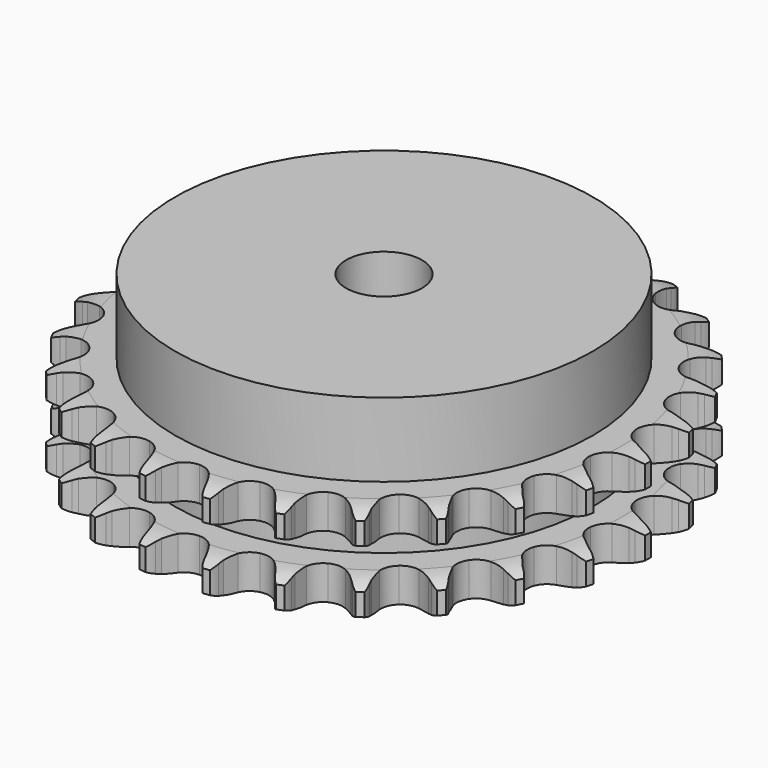
from build123d import *

# Parameters (mm, degrees)
PAD_DEPTH         = 25.5
SKETCH001_R       = 55
PAD001_DEPTH      = 45
SKETCH002_R       = 10
POCKET_DEPTH      = 0.001
POCKET_DEPTH_BACK = 45.001


with BuildPart() as part:
    # Sprocket → Pad (new body)
    with BuildSketch(Plane.XY):
        with BuildLine():
            ThreePointArc((-8.535843, 70.298991), (-7.278141, 68.863703), (-6.380745, 67.179499))
            Line((-6.380745, 67.179499), (-5.886352, 65.921935))
            ThreePointArc((-5.886352, 65.921935), (-5.099116, 64.265742), (-4.091099, 62.733874))
            ThreePointArc((-4.091099, 62.733874), (-2.28265, 61.242083), (0, 60.707824))
            ThreePointArc((0, 60.707824), (2.28265, 61.242083), (4.091099, 62.733874))
            ThreePointArc((4.091099, 62.733874), (5.099116, 64.265742), (5.886352, 65.921935))
            Line((5.886352, 65.921935), (6.380745, 67.179499))
            ThreePointArc((6.380745, 67.179499), (7.278141, 68.863703), (8.535843, 70.298991))
            ThreePointArc((8.535843, 70.298991), (9.413511, 68.604422), (9.881775, 66.754397))
            Line((9.881775, 66.754397), (10.060846, 65.41506))
            ThreePointArc((10.060846, 65.41506), (10.428854, 63.618594), (11.040979, 61.890005))
            ThreePointArc((11.040979, 61.890005), (12.439869, 60.008774), (14.528333, 58.943765))
            ThreePointArc((14.528333, 58.943765), (16.872511, 58.916226), (18.985418, 59.931877))
            Line((18.985418, 59.931877), (21.491457, 62.597667))
            ThreePointArc((21.491457, 62.597667), (21.867904, 63.158966), (22.272438, 63.700373))
            ThreePointArc((22.272438, 63.700373), (23.546814, 65.120876), (25.111457, 66.213469))
            ThreePointArc((25.111457, 66.213469), (25.558085, 64.358102), (25.570001, 62.449772))
            Line((25.570001, 62.449772), (25.423345, 61.106499))
            ThreePointArc((25.423345, 61.106499), (25.350736, 59.274165), (25.531396, 57.449315))
            ThreePointArc((25.531396, 57.449315), (26.439429, 55.287972), (28.212333, 53.754109))
            ThreePointArc((28.212333, 53.754109), (30.481802, 53.166371), (32.776373, 53.646858))
            Line((32.776373, 53.646858), (35.847557, 55.63545))
            ThreePointArc((35.847557, 55.63545), (36.347393, 56.090349), (36.869739, 56.519212))
            ThreePointArc((36.869739, 56.519212), (38.447033, 57.59346), (40.227684, 58.279861))
            ThreePointArc((40.227684, 58.279861), (40.217315, 56.371522), (39.772192, 54.515793))
            Line((39.772192, 54.515793), (39.308331, 53.24665))
            ThreePointArc((39.308331, 53.24665), (38.799326, 51.484938), (38.538021, 49.669879))
            ThreePointArc((38.538021, 49.669879), (38.902425, 47.354035), (40.256734, 45.440459))
            ThreePointArc((40.256734, 45.440459), (42.319601, 44.326681), (44.662485, 44.244078))
            Line((44.662485, 44.244078), (48.120326, 45.439903))
            ThreePointArc((48.120326, 45.439903), (48.714503, 45.761965), (49.324304, 46.053361))
            ThreePointArc((49.324304, 46.053361), (51.112849, 46.718922), (53.006024, 46.95924))
            ThreePointArc((53.006024, 46.95924), (52.539261, 45.108835), (51.662968, 43.413555))
            Line((51.662968, 43.413555), (50.90886, 42.2923))
            ThreePointArc((50.90886, 42.2923), (49.99304, 40.703592), (49.304956, 39.003811))
            ThreePointArc((49.304956, 39.003811), (49.104553, 36.668053), (49.96156, 34.485975))
            ThreePointArc((49.96156, 34.485975), (51.69794, 32.910884), (53.952975, 32.269993))
            Line((53.952975, 32.269993), (57.596518, 32.603555))
            ThreePointArc((57.596518, 32.603555), (58.250503, 32.774062), (58.91232, 32.911055))
            ThreePointArc((58.91232, 32.911055), (60.808172, 33.129249), (62.703847, 32.909518))
            ThreePointArc((62.703847, 32.909518), (61.807817, 31.224586), (60.551279, 29.788278))
            Line((60.551279, 29.788278), (59.550751, 28.880075))
            ThreePointArc((59.550751, 28.880075), (58.281341, 27.556702), (57.206467, 26.070982))
            ThreePointArc((57.206467, 26.070982), (56.452904, 23.851057), (56.762802, 21.527291))
            ThreePointArc((56.762802, 21.527291), (58.071782, 19.582427), (60.107915, 18.420494))
            Line((60.107915, 18.420494), (63.725409, 17.872406))
            ThreePointArc((63.725409, 17.872406), (64.401195, 17.88145), (65.076566, 17.856079))
            ThreePointArc((65.076566, 17.856079), (66.969545, 17.614226), (68.75755, 16.947214))
            ThreePointArc((68.75755, 16.947214), (67.484326, 15.525677), (65.920571, 14.431816))
            Line((65.920571, 14.431816), (64.731768, 13.789445))
            ThreePointArc((64.731768, 13.789445), (63.182541, 12.808317), (61.783345, 11.623003))
            ThreePointArc((61.783345, 11.623003), (60.520417, 9.647925), (60.265196, 7.31752))
            ThreePointArc((60.265196, 7.31752), (61.070703, 5.11591), (62.7696, 3.500462))
            Line((62.7696, 3.500462), (66.150811, 2.102577))
            ThreePointArc((66.150811, 2.102577), (66.809125, 1.949632), (67.458798, 1.763372))
            ThreePointArc((67.458798, 1.763372), (69.238892, 1.075527), (70.815314, 0))
            ThreePointArc((70.815314, 0), (69.238892, -1.075527), (67.458798, -1.763372))
            Line((67.458798, -1.763372), (66.150811, -2.102577))
            ThreePointArc((66.150811, -2.102577), (64.411802, -2.684442), (62.7696, -3.500462))
            ThreePointArc((62.7696, -3.500462), (61.070703, -5.11591), (60.265196, -7.31752))
            ThreePointArc((60.265196, -7.31752), (60.520417, -9.647925), (61.783345, -11.623003))
            Line((61.783345, -11.623003), (64.731768, -13.789445))
            ThreePointArc((64.731768, -13.789445), (65.33435, -14.095491), (65.920571, -14.431816))
            ThreePointArc((65.920571, -14.431816), (67.484326, -15.525677), (68.75755, -16.947214))
            ThreePointArc((68.75755, -16.947214), (66.969545, -17.614226), (65.076566, -17.856079))
            Line((65.076566, -17.856079), (63.725409, -17.872406))
            ThreePointArc((63.725409, -17.872406), (61.897684, -18.02119), (60.107915, -18.420494))
            ThreePointArc((60.107915, -18.420494), (58.071782, -19.582427), (56.762802, -21.527291))
            ThreePointArc((56.762802, -21.527291), (56.452904, -23.851057), (57.206467, -26.070982))
            Line((57.206467, -26.070982), (59.550751, -28.880075))
            ThreePointArc((59.550751, -28.880075), (60.062581, -29.321435), (60.551279, -29.788278))
            ThreePointArc((60.551279, -29.788278), (61.807817, -31.224586), (62.703847, -32.909518))
            ThreePointArc((62.703847, -32.909518), (60.808172, -33.129249), (58.91232, -32.911055))
            Line((58.91232, -32.911055), (57.596518, -32.603555))
            ThreePointArc((57.596518, -32.603555), (55.786296, -32.310612), (53.952975, -32.269993))
            ThreePointArc((53.952975, -32.269993), (51.69794, -32.910884), (49.96156, -34.485975))
            ThreePointArc((49.96156, -34.485975), (49.104553, -36.668053), (49.304956, -39.003811))
            Line((49.304956, -39.003811), (50.90886, -42.2923))
            ThreePointArc((50.90886, -42.2923), (51.300193, -42.843324), (51.662968, -43.413555))
            ThreePointArc((51.662968, -43.413555), (52.539261, -45.108835), (53.006024, -46.95924))
            ThreePointArc((53.006024, -46.95924), (51.112849, -46.718922), (49.324304, -46.053361))
            Line((49.324304, -46.053361), (48.120326, -45.439903))
            ThreePointArc((48.120326, -45.439903), (46.432812, -44.722259), (44.662485, -44.244078))
            ThreePointArc((44.662485, -44.244078), (42.319601, -44.326681), (40.256734, -45.440459))
            ThreePointArc((40.256734, -45.440459), (38.902425, -47.354035), (38.538021, -49.669879))
            Line((38.538021, -49.669879), (39.308331, -53.24665))
            ThreePointArc((39.308331, -53.24665), (39.556424, -53.875314), (39.772192, -54.515793))
            ThreePointArc((39.772192, -54.515793), (40.217315, -56.371522), (40.227684, -58.279861))
            ThreePointArc((40.227684, -58.279861), (38.447033, -57.59346), (36.869739, -56.519212))
            Line((36.869739, -56.519212), (35.847557, -55.63545))
            ThreePointArc((35.847557, -55.63545), (34.380822, -54.534811), (32.776373, -53.646858))
            ThreePointArc((32.776373, -53.646858), (30.481802, -53.166371), (28.212333, -53.754109))
            ThreePointArc((28.212333, -53.754109), (26.439429, -55.287972), (25.531396, -57.449315))
            Line((25.531396, -57.449315), (25.423345, -61.106499))
            ThreePointArc((25.423345, -61.106499), (25.51378, -61.776268), (25.570001, -62.449772))
            ThreePointArc((25.570001, -62.449772), (25.558085, -64.358102), (25.111457, -66.213469))
            ThreePointArc((25.111457, -66.213469), (23.546814, -65.120876), (22.272438, -63.700373))
            Line((22.272438, -63.700373), (21.491457, -62.597667))
            ThreePointArc((21.491457, -62.597667), (20.330744, -61.177998), (18.985418, -59.931877))
            ThreePointArc((18.985418, -59.931877), (16.872511, -58.916226), (14.528333, -58.943765))
            ThreePointArc((14.528333, -58.943765), (12.439869, -60.008774), (11.040979, -61.890005))
            Line((11.040979, -61.890005), (10.060846, -65.41506))
            ThreePointArc((10.060846, -65.41506), (9.988367, -66.087009), (9.881775, -66.754397))
            ThreePointArc((9.881775, -66.754397), (9.413511, -68.604422), (8.535843, -70.298991))
            ThreePointArc((8.535843, -70.298991), (7.278141, -68.863703), (6.380745, -67.179499))
            Line((6.380745, -67.179499), (5.886352, -65.921935))
            ThreePointArc((5.886352, -65.921935), (5.099116, -64.265742), (4.091099, -62.733874))
            ThreePointArc((4.091099, -62.733874), (2.28265, -61.242083), (0, -60.707824))
            ThreePointArc((0, -60.707824), (-2.28265, -61.242083), (-4.091099, -62.733874))
            Line((-4.091099, -62.733874), (-5.886352, -65.921935))
            ThreePointArc((-5.886352, -65.921935), (-6.117533, -66.557013), (-6.380745, -67.179499))
            ThreePointArc((-6.380745, -67.179499), (-7.278141, -68.863703), (-8.535843, -70.298991))
            ThreePointArc((-8.535843, -70.298991), (-9.413511, -68.604422), (-9.881775, -66.754397))
            Line((-9.881775, -66.754397), (-10.060846, -65.41506))
            ThreePointArc((-10.060846, -65.41506), (-10.428854, -63.618594), (-11.040979, -61.890005))
            ThreePointArc((-11.040979, -61.890005), (-12.439869, -60.008774), (-14.528333, -58.943765))
            ThreePointArc((-14.528333, -58.943765), (-16.872511, -58.916226), (-18.985418, -59.931877))
            Line((-18.985418, -59.931877), (-21.491457, -62.597667))
            ThreePointArc((-21.491457, -62.597667), (-21.867904, -63.158966), (-22.272438, -63.700373))
            ThreePointArc((-22.272438, -63.700373), (-23.546814, -65.120876), (-25.111457, -66.213469))
            ThreePointArc((-25.111457, -66.213469), (-25.558085, -64.358102), (-25.570001, -62.449772))
            Line((-25.570001, -62.449772), (-25.423345, -61.106499))
            ThreePointArc((-25.423345, -61.106499), (-25.350736, -59.274165), (-25.531396, -57.449315))
            ThreePointArc((-25.531396, -57.449315), (-26.439429, -55.287972), (-28.212333, -53.754109))
            ThreePointArc((-28.212333, -53.754109), (-30.481802, -53.166371), (-32.776373, -53.646858))
            Line((-32.776373, -53.646858), (-35.847557, -55.63545))
            ThreePointArc((-35.847557, -55.63545), (-36.347393, -56.090349), (-36.869739, -56.519212))
            ThreePointArc((-36.869739, -56.519212), (-38.447033, -57.59346), (-40.227684, -58.279861))
            ThreePointArc((-40.227684, -58.279861), (-40.217315, -56.371522), (-39.772192, -54.515793))
            Line((-39.772192, -54.515793), (-39.308331, -53.24665))
            ThreePointArc((-39.308331, -53.24665), (-38.799326, -51.484938), (-38.538021, -49.669879))
            ThreePointArc((-38.538021, -49.669879), (-38.902425, -47.354035), (-40.256734, -45.440459))
            ThreePointArc((-40.256734, -45.440459), (-42.319601, -44.326681), (-44.662485, -44.244078))
            Line((-44.662485, -44.244078), (-48.120326, -45.439903))
            ThreePointArc((-48.120326, -45.439903), (-48.714503, -45.761965), (-49.324304, -46.053361))
            ThreePointArc((-49.324304, -46.053361), (-51.112849, -46.718922), (-53.006024, -46.95924))
            ThreePointArc((-53.006024, -46.95924), (-52.539261, -45.108835), (-51.662968, -43.413555))
            Line((-51.662968, -43.413555), (-50.90886, -42.2923))
            ThreePointArc((-50.90886, -42.2923), (-49.99304, -40.703592), (-49.304956, -39.003811))
            ThreePointArc((-49.304956, -39.003811), (-49.104553, -36.668053), (-49.96156, -34.485975))
            ThreePointArc((-49.96156, -34.485975), (-51.69794, -32.910884), (-53.952975, -32.269993))
            Line((-53.952975, -32.269993), (-57.596518, -32.603555))
            ThreePointArc((-57.596518, -32.603555), (-58.250503, -32.774062), (-58.91232, -32.911055))
            ThreePointArc((-58.91232, -32.911055), (-60.808172, -33.129249), (-62.703847, -32.909518))
            ThreePointArc((-62.703847, -32.909518), (-61.807817, -31.224586), (-60.551279, -29.788278))
            Line((-60.551279, -29.788278), (-59.550751, -28.880075))
            ThreePointArc((-59.550751, -28.880075), (-58.281341, -27.556702), (-57.206467, -26.070982))
            ThreePointArc((-57.206467, -26.070982), (-56.452904, -23.851057), (-56.762802, -21.527291))
            ThreePointArc((-56.762802, -21.527291), (-58.071782, -19.582427), (-60.107915, -18.420494))
            Line((-60.107915, -18.420494), (-63.725409, -17.872406))
            ThreePointArc((-63.725409, -17.872406), (-64.401195, -17.88145), (-65.076566, -17.856079))
            ThreePointArc((-65.076566, -17.856079), (-66.969545, -17.614226), (-68.75755, -16.947214))
            ThreePointArc((-68.75755, -16.947214), (-67.484326, -15.525677), (-65.920571, -14.431816))
            Line((-65.920571, -14.431816), (-64.731768, -13.789445))
            ThreePointArc((-64.731768, -13.789445), (-63.182541, -12.808317), (-61.783345, -11.623003))
            ThreePointArc((-61.783345, -11.623003), (-60.520417, -9.647925), (-60.265196, -7.31752))
            ThreePointArc((-60.265196, -7.31752), (-61.070703, -5.11591), (-62.7696, -3.500462))
            Line((-62.7696, -3.500462), (-66.150811, -2.102577))
            ThreePointArc((-66.150811, -2.102577), (-66.809125, -1.949632), (-67.458798, -1.763372))
            ThreePointArc((-67.458798, -1.763372), (-69.238892, -1.075527), (-70.815314, 0))
            ThreePointArc((-70.815314, 0), (-69.238892, 1.075527), (-67.458798, 1.763372))
            Line((-67.458798, 1.763372), (-66.150811, 2.102577))
            ThreePointArc((-66.150811, 2.102577), (-64.411802, 2.684442), (-62.7696, 3.500462))
            ThreePointArc((-62.7696, 3.500462), (-61.070703, 5.11591), (-60.265196, 7.31752))
            ThreePointArc((-60.265196, 7.31752), (-60.520417, 9.647925), (-61.783345, 11.623003))
            Line((-61.783345, 11.623003), (-64.731768, 13.789445))
            ThreePointArc((-64.731768, 13.789445), (-65.33435, 14.095491), (-65.920571, 14.431816))
            ThreePointArc((-65.920571, 14.431816), (-67.484326, 15.525677), (-68.75755, 16.947214))
            ThreePointArc((-68.75755, 16.947214), (-66.969545, 17.614226), (-65.076566, 17.856079))
            Line((-65.076566, 17.856079), (-63.725409, 17.872406))
            ThreePointArc((-63.725409, 17.872406), (-61.897684, 18.02119), (-60.107915, 18.420494))
            ThreePointArc((-60.107915, 18.420494), (-58.071782, 19.582427), (-56.762802, 21.527291))
            ThreePointArc((-56.762802, 21.527291), (-56.452904, 23.851057), (-57.206467, 26.070982))
            Line((-57.206467, 26.070982), (-59.550751, 28.880075))
            ThreePointArc((-59.550751, 28.880075), (-60.062581, 29.321435), (-60.551279, 29.788278))
            ThreePointArc((-60.551279, 29.788278), (-61.807817, 31.224586), (-62.703847, 32.909518))
            ThreePointArc((-62.703847, 32.909518), (-60.808172, 33.129249), (-58.91232, 32.911055))
            Line((-58.91232, 32.911055), (-57.596518, 32.603555))
            ThreePointArc((-57.596518, 32.603555), (-55.786296, 32.310612), (-53.952975, 32.269993))
            ThreePointArc((-53.952975, 32.269993), (-51.69794, 32.910884), (-49.96156, 34.485975))
            ThreePointArc((-49.96156, 34.485975), (-49.104553, 36.668053), (-49.304956, 39.003811))
            Line((-49.304956, 39.003811), (-50.90886, 42.2923))
            ThreePointArc((-50.90886, 42.2923), (-51.300193, 42.843324), (-51.662968, 43.413555))
            ThreePointArc((-51.662968, 43.413555), (-52.539261, 45.108835), (-53.006024, 46.95924))
            ThreePointArc((-53.006024, 46.95924), (-51.112849, 46.718922), (-49.324304, 46.053361))
            Line((-49.324304, 46.053361), (-48.120326, 45.439903))
            ThreePointArc((-48.120326, 45.439903), (-46.432812, 44.722259), (-44.662485, 44.244078))
            ThreePointArc((-44.662485, 44.244078), (-42.319601, 44.326681), (-40.256734, 45.440459))
            ThreePointArc((-40.256734, 45.440459), (-38.902425, 47.354035), (-38.538021, 49.669879))
            Line((-38.538021, 49.669879), (-39.308331, 53.24665))
            ThreePointArc((-39.308331, 53.24665), (-39.556424, 53.875314), (-39.772192, 54.515793))
            ThreePointArc((-39.772192, 54.515793), (-40.217315, 56.371522), (-40.227684, 58.279861))
            ThreePointArc((-40.227684, 58.279861), (-38.447033, 57.59346), (-36.869739, 56.519212))
            Line((-36.869739, 56.519212), (-35.847557, 55.63545))
            ThreePointArc((-35.847557, 55.63545), (-34.380822, 54.534811), (-32.776373, 53.646858))
            ThreePointArc((-32.776373, 53.646858), (-30.481802, 53.166371), (-28.212333, 53.754109))
            ThreePointArc((-28.212333, 53.754109), (-26.439429, 55.287972), (-25.531396, 57.449315))
            Line((-25.531396, 57.449315), (-25.423345, 61.106499))
            ThreePointArc((-25.423345, 61.106499), (-25.51378, 61.776268), (-25.570001, 62.449772))
            ThreePointArc((-25.570001, 62.449772), (-25.558085, 64.358102), (-25.111457, 66.213469))
            ThreePointArc((-25.111457, 66.213469), (-23.546814, 65.120876), (-22.272438, 63.700373))
            Line((-22.272438, 63.700373), (-21.491457, 62.597667))
            ThreePointArc((-21.491457, 62.597667), (-20.330744, 61.177998), (-18.985418, 59.931877))
            ThreePointArc((-18.985418, 59.931877), (-16.872511, 58.916226), (-14.528333, 58.943765))
            ThreePointArc((-14.528333, 58.943765), (-12.439869, 60.008774), (-11.040979, 61.890005))
            Line((-11.040979, 61.890005), (-10.060846, 65.41506))
            ThreePointArc((-10.060846, 65.41506), (-9.988367, 66.087009), (-9.881775, 66.754397))
            ThreePointArc((-9.881775, 66.754397), (-9.413511, 68.604422), (-8.535843, 70.298991))
        make_face()
    extrude(amount=PAD_DEPTH)

    # Sketch → Groove (revolve, cut)
    with BuildSketch(Plane.XZ):
        with BuildLine():
            ThreePointArc((62.525762, 0), (66.10347, 0.405129), (69.5, 1.6))
            Line((69.5, 1.6), (69.5, 7.4))
            ThreePointArc((69.5, 7.4), (66.10347, 8.594871), (62.525762, 9))
            Line((55, 9), (62.525762, 9))
            Line((55, 16.5), (55, 9))
            Line((62.525762, 16.5), (55, 16.5))
            ThreePointArc((62.525762, 16.5), (66.10347, 16.905129), (69.5, 18.1))
            Line((69.5, 18.1), (69.5, 23.9))
            ThreePointArc((69.5, 23.9), (66.10347, 25.094871), (62.525762, 25.5))
            Line((62.525762, 25.5), (72.525762, 25.5))
            Line((72.525762, 25.5), (72.525762, 0))
            Line((62.525762, 0), (72.525762, 0))
        make_face()
    revolve(axis=Axis((0, 0, 0), (0, 0, 1)), mode=Mode.SUBTRACT)

    # Sketch001 → Pad001 (join)
    with BuildSketch(Plane.XY):
        Circle(SKETCH001_R)
    extrude(amount=PAD001_DEPTH)

    # Sketch002 → Pocket (cut, two sides)
    with BuildSketch(Plane.XY) as pocket_sk:
        Circle(SKETCH002_R)
    extrude(amount=-POCKET_DEPTH, mode=Mode.SUBTRACT)
    extrude(pocket_sk.sketch, amount=POCKET_DEPTH_BACK, mode=Mode.SUBTRACT)


solid = part.part
